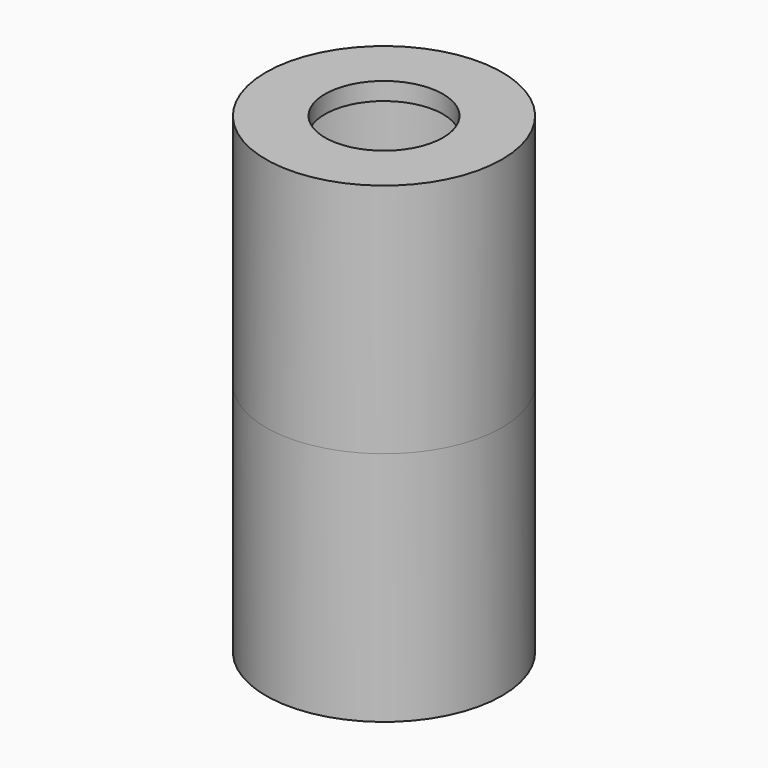
from build123d import *


with BuildPart() as f1:
    # F0 (on Front) → F1 (revolve)
    with BuildSketch(Plane.XZ):
        Polygon((20, 40), (10, 40), (10, 37), (17, 37), (17, 5), (18.7, 5), (18.7, 0), (20, 0), align=None)
    revolve(axis=Axis((0, 0, 20), (0, 0, 1)))


with BuildPart() as f3:
    # F2 (on Front) → F3 (revolve)
    with BuildSketch(Plane.XZ):
        Polygon((20, -40), (20, 0), (18.4, 0), (18.4, 5), (17, 5), (17, 0), (17, -37), (10, -37), (10, -40), align=None)
    revolve(axis=Axis((0, 0, -9.94769), (0, 0, -1)))


solid = Compound([f1.part, f3.part])
